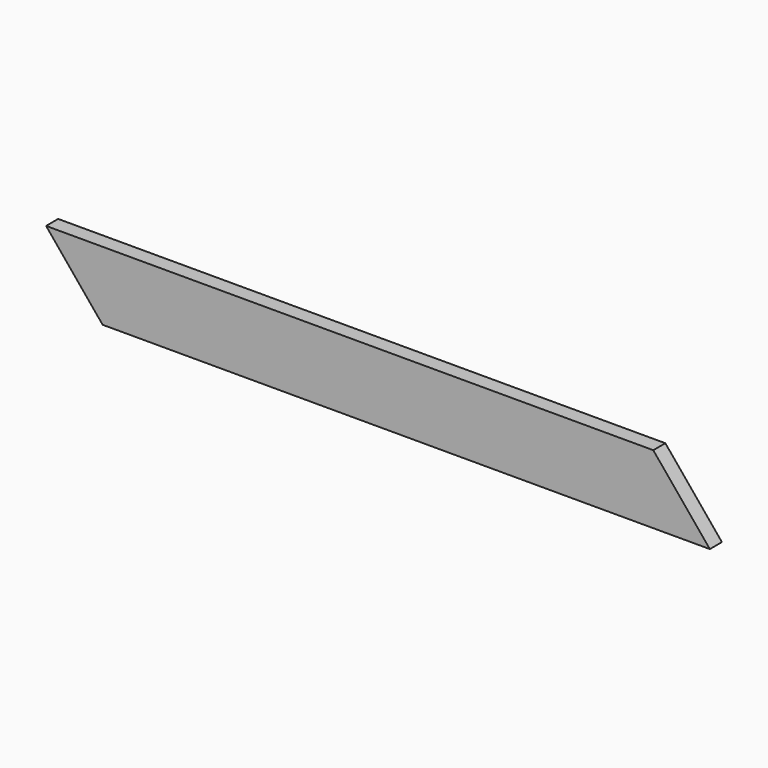
from build123d import *

# Parameters (mm, degrees)
F0_W     = 966.540682
F0_H     = 100
F1_DEPTH = 22
F3_DEPTH = 22
F5_DEPTH = 25


with BuildPart() as f1:
    # F0 (on Front) → F1 (new body)
    with BuildSketch(Plane.XZ):
        Rectangle(F0_W, F0_H)
    extrude(amount=F1_DEPTH)

    # F2 (on face) → F3 (cut)
    with BuildSketch(Plane.XZ.offset(22)):
        Polygon((-400.924605, -50), (-483.270341, 50), (-483.270341, -50), align=None)
    extrude(amount=-F3_DEPTH, mode=Mode.SUBTRACT)

    # F4 (on face) → F5 (cut)
    with BuildSketch(Plane.XZ.offset(22)):
        Polygon((483.270341, -50), (483.270341, 50), (400.924605, 50), align=None)
    extrude(amount=-F5_DEPTH, mode=Mode.SUBTRACT)


solid = f1.part
